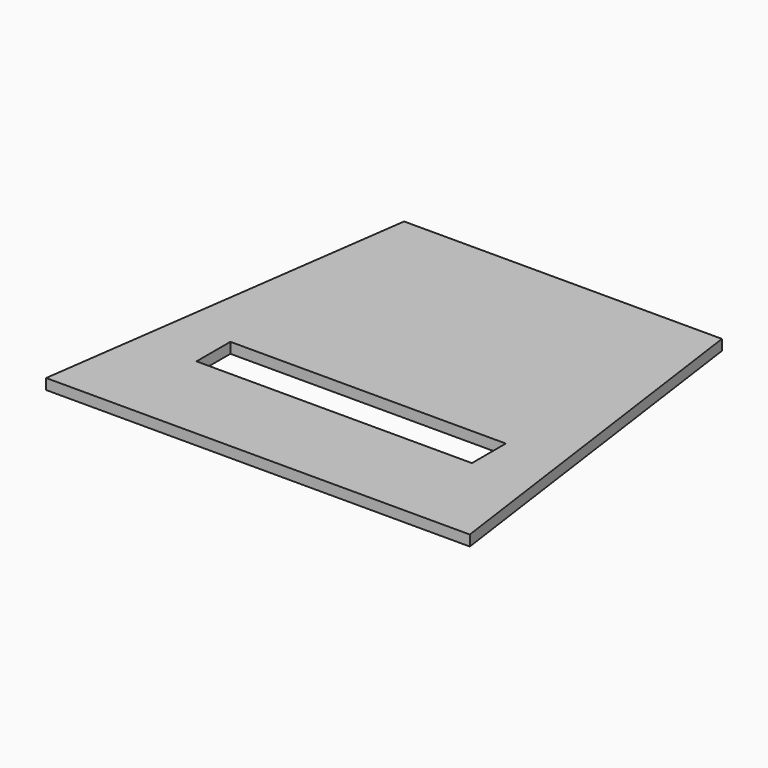
from build123d import *

# Parameters (mm, degrees)
F1_DEPTH = 25.4
F2_W     = 660.4
F2_H     = 101.6
F3_DEPTH = 25.4


with BuildPart() as f1:
    # F0 (on Top) → F1 (new body)
    with BuildSketch(Plane.XY):
        Polygon((-508, -457.2), (508, -457.2), (381, 457.2), (-381, 457.2), align=None)
    extrude(amount=F1_DEPTH)

    # F2 (on face) → F3 (cut)
    with BuildSketch(Plane.XY.offset(25.4)):
        with Locations((0, -177.8)):
            Rectangle(F2_W, F2_H)
    extrude(amount=-F3_DEPTH, mode=Mode.SUBTRACT)


solid = f1.part
